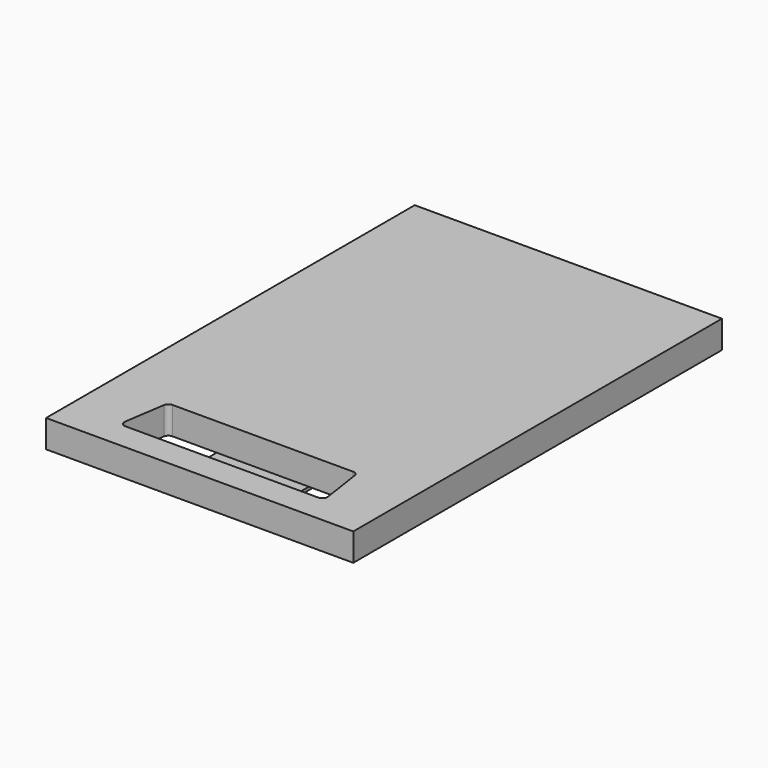
from build123d import *

# Parameters (mm, degrees)
F0_W     = 300
F0_H     = 450
F1_DEPTH = 27
F2_DEPTH = 3


with BuildPart() as f1:
    # F0 (on Top) → F1 (new body)
    with BuildSketch(Plane.XY):
        with Locations((0, 225)):
            Rectangle(F0_W, F0_H)
        with BuildLine():
            Line((0, 27), (-94.194062896, 27))
            ThreePointArc((-94.194062896, 27), (-97.982763948, 28.7372183128), (-99.1387446603, 32.7417022647))
            Line((-99.1387446603, 32.7417022647), (-93.1387446603, 72.7417022647))
            ThreePointArc((-93.1387446603, 72.7417022647), (-91.4568445832, 75.788701052), (-88.194062896, 77))
            Line((-88.194062896, 77), (-45, 77))
            Line((-45, 77), (-45, 112))
            ThreePointArc((-45, 112), (-43.5355339059, 115.5355339059), (-40, 117))
            Line((-40, 117), (0, 117))
            Line((0, 117), (40, 117))
            ThreePointArc((40, 117), (43.5355339059, 115.5355339059), (45, 112))
            Line((45, 112), (45, 77))
            Line((45, 77), (88.194062896, 77))
            ThreePointArc((88.194062896, 77), (91.4568445832, 75.788701052), (93.1387446603, 72.7417022647))
            Line((93.1387446603, 72.7417022647), (99.1387446603, 32.7417022647))
            ThreePointArc((99.1387446603, 32.7417022647), (97.982763948, 28.7372183128), (94.194062896, 27))
            Line((94.194062896, 27), (0, 27))
        make_face(mode=Mode.SUBTRACT)
        with BuildLine():
            Line((-45, 112), (-45, 77))
            Line((-45, 77), (0, 77))
            Line((0, 77), (45, 77))
            Line((45, 77), (45, 112))
            ThreePointArc((45, 112), (43.5355339059, 115.5355339059), (40, 117))
            Line((40, 117), (0, 117))
            Line((0, 117), (-40, 117))
            ThreePointArc((-40, 117), (-43.5355339059, 115.5355339059), (-45, 112))
        make_face()
    extrude(amount=F1_DEPTH)


with BuildPart() as f2:
    # F0 (on Top) → F2 (new body)
    with BuildSketch(Plane.XY):
        with BuildLine():
            Line((0, 77), (-45, 77))
            Line((-45, 77), (-45, 57))
            ThreePointArc((-45, 57), (-40, 52), (-35, 57))
            ThreePointArc((-35, 57), (-30, 62), (-25, 57))
            ThreePointArc((-25, 57), (-20, 52), (-15, 57))
            ThreePointArc((-15, 57), (-10, 62), (-5, 57))
            ThreePointArc((-5, 57), (-3.5355339059, 53.4644660941), (0, 52))
            ThreePointArc((0, 52), (3.5355339059, 53.4644660941), (5, 57))
            ThreePointArc((5, 57), (10, 62), (15, 57))
            ThreePointArc((15, 57), (20, 52), (25, 57))
            ThreePointArc((25, 57), (30, 62), (35, 57))
            ThreePointArc((35, 57), (40, 52), (45, 57))
            Line((45, 57), (45, 77))
            Line((45, 77), (0, 77))
        make_face()
        with BuildLine():
            Line((-45, 112), (-45, 77))
            Line((-45, 77), (0, 77))
            Line((0, 77), (45, 77))
            Line((45, 77), (45, 112))
            ThreePointArc((45, 112), (43.5355339059, 115.5355339059), (40, 117))
            Line((40, 117), (0, 117))
            Line((0, 117), (-40, 117))
            ThreePointArc((-40, 117), (-43.5355339059, 115.5355339059), (-45, 112))
        make_face()
    extrude(amount=-F2_DEPTH)


solid = Compound([f1.part, f2.part])
